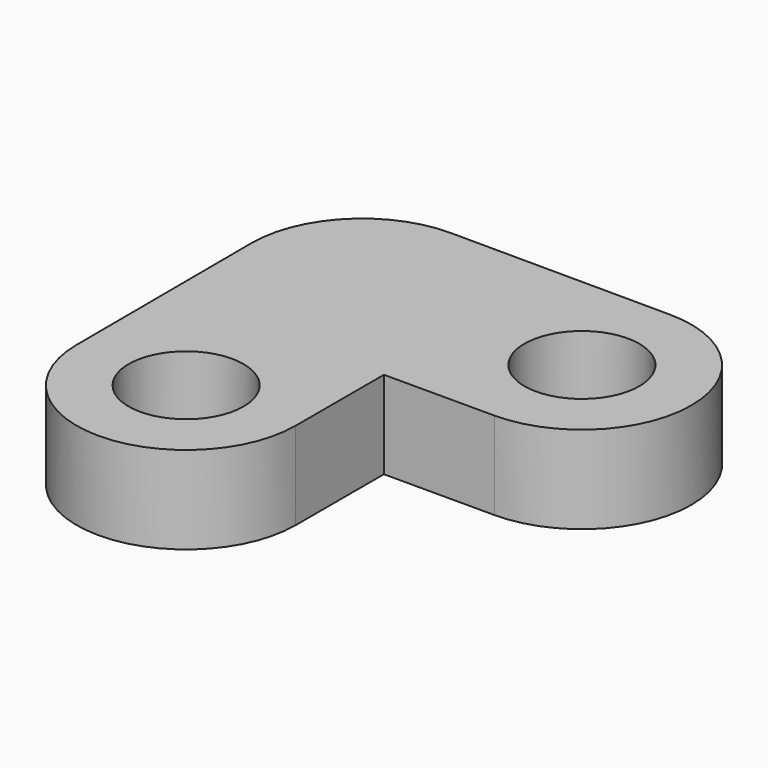
from build123d import *

# Parameters (mm, degrees)
F0_R     = 2.0828
F1_DEPTH = 3.175


with BuildPart() as f1:
    # F0 (on Top) → F1 (new body)
    with BuildSketch(Plane.XY):
        with BuildLine():
            Line((7.96875, 3.96875), (0.015702, 3.999969))
            ThreePointArc((0.015702, 3.999969), (-2.828427, 2.828427), (-3.999969, -0.015702))
            Line((-3.999969, -0.015702), (-3.96875, -7.96875))
            ThreePointArc((-3.96875, -7.96875), (0, -11.9375), (3.96875, -7.96875))
            Line((3.96875, -7.96875), (3.96875, -3.96875))
            Line((3.96875, -3.96875), (7.96875, -3.96875))
            ThreePointArc((7.96875, -3.96875), (11.9375, 0), (7.96875, 3.96875))
        make_face()
        with Locations((0, -7.96875)):
            Circle(F0_R, mode=Mode.SUBTRACT)
        with Locations((7.96875, 0)):
            Circle(F0_R, mode=Mode.SUBTRACT)
    extrude(amount=F1_DEPTH)


solid = f1.part
